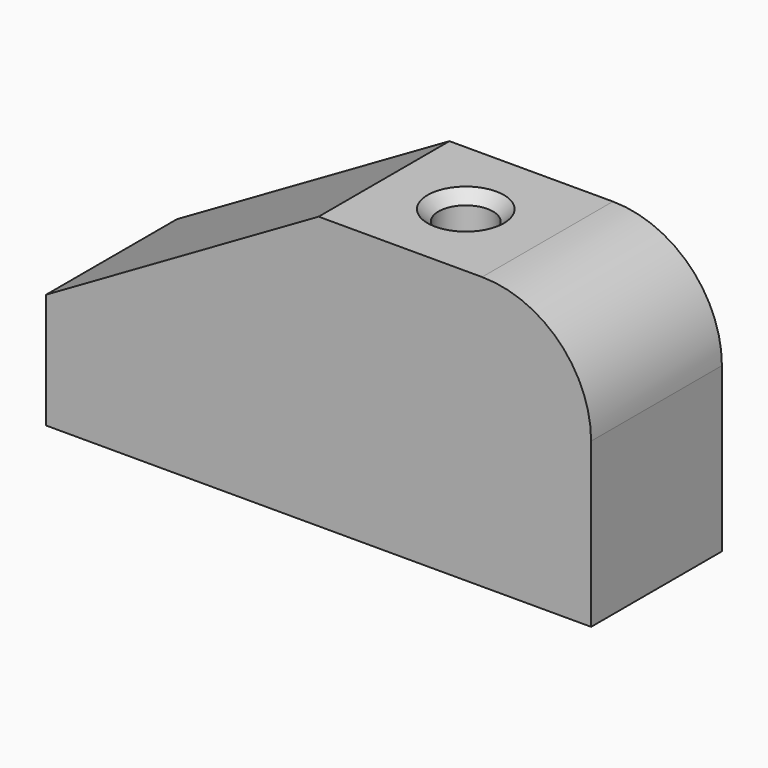
from build123d import *

# Parameters (mm, degrees)
CYLINDER_R             = 5
CYLINDER_DEPTH         = 50
BOX001_W               = 60
BOX001_H               = 30
BOX001_DEPTH           = 30
BOX001_PLACEMENT_ANGLE = 330
BOX_W                  = 100
BOX_H                  = 30
BOX_DEPTH              = 50
FILLET_R               = 20
THICKNESS_T            = -1


with BuildPart() as cone:
    # Cone → Cone (revolve)
    with BuildSketch(Plane(origin=(65.002153, 15, 43), x_dir=(1, 0, 0), z_dir=(0, -1, 0))):
        Polygon((0, 0), (7, 7), (0, 7), align=None)
    revolve(axis=Axis((65.002153, 15, 43), (0, 0, 1)))


with BuildPart() as cylinder:
    # Cylinder → Cylinder (new body)
    with BuildSketch(Plane(origin=(65.002153, 15, 0), x_dir=(1, 0, 0), z_dir=(0, 0, 1))):
        Circle(CYLINDER_R)
    extrude(amount=CYLINDER_DEPTH)


with BuildPart() as cube001:
    # Box001 → Box001 (new body)
    with BuildSketch(Plane.XY):
        with Locations((30, 15)):
            Rectangle(BOX001_W, BOX001_H)
    extrude(amount=BOX001_DEPTH)


with BuildPart() as cube001_1:
    # Box001 placement: moved
    add(cube001.part.moved(Location((0, 0, 21.13))).rotate(Axis((0, 0, 21.13), (0, 1, 0)), BOX001_PLACEMENT_ANGLE))


with BuildPart() as thickness:
    # Box → Box (new body)
    with BuildSketch(Plane.XY):
        with Locations((50, 15)):
            Rectangle(BOX_W, BOX_H)
    extrude(amount=BOX_DEPTH)

    # Fillet
    fillet_edges = [thickness.edges().sort_by_distance(p)[0] for p in [
        (100, 15, 50),
    ]]
    fillet(fillet_edges, radius=FILLET_R)

    # Cut: cut Cube001
    add(cube001_1.part, mode=Mode.SUBTRACT)

    # Cut001: cut Cylinder
    add(cylinder.part, mode=Mode.SUBTRACT)

    # Cut002: cut Cone
    add(cone.part, mode=Mode.SUBTRACT)

    # Thickness
    thickness_openings = [thickness.faces().sort_by_distance(p)[0] for p in [
        (49.596686, 15, 0),
    ]]
    offset(amount=THICKNESS_T, openings=thickness_openings)


solid = thickness.part
